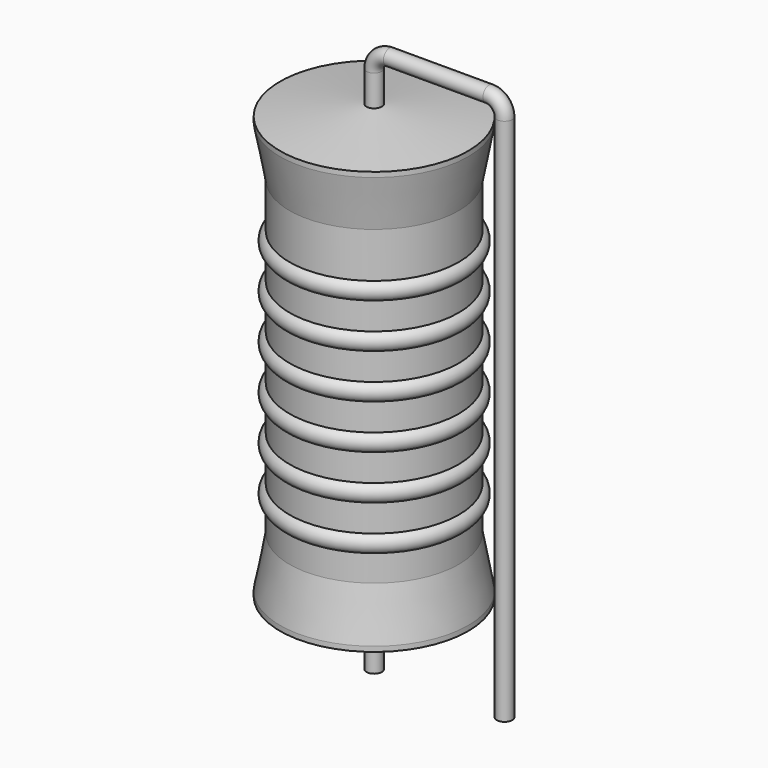
from build123d import *

# Parameters (mm, degrees)
SKETCH_R = 0.45


with BuildPart() as sweep_body:
    # Sweep: sweep along a path in Sketch001
    with BuildLine(Plane.XZ) as sweep_path:
        Line((0, -3), (0, 27.9))
        ThreePointArc((0, 27.9), (0.263601, 28.536393), (0.899991, 28.8))
        Line((0.899991, 28.8), (6.72, 28.8))
        ThreePointArc((6.72, 28.8), (7.356396, 28.536396), (7.62, 27.9))
        Line((7.62, 27.9), (7.62, -3))
    # Sketch → Sweep (sweep)
    with BuildSketch(Plane.XY.offset(-2)):
        Circle(SKETCH_R)
    sweep(path=sweep_path.line)


with BuildPart() as revolution:
    # Sketch002 → Revolution (revolve)
    with BuildSketch(Plane.XZ):
        Polygon((0, 0.1), (0, 26.1), (0.3375, 26.1), (5.5, 25.45), (5.5, 25.1575), (4.95, 22.2), (4.95, 4), (5.5, 1.0425), (5.5, 0.75), (0.3375, 0.1), align=None)
    revolve(axis=Axis((0, 0, 0), (0, 0, 1)))


with BuildPart() as revolution001:
    # Sketch003 → Revolution001 (revolve)
    with BuildSketch(Plane.XZ):
        with BuildLine():
            Line((4.4, 21.1), (4.4, 4))
            Line((4.4, 4), (4.73, 4))
            Line((4.73, 4), (4.73, 5.5))
            ThreePointArc((4.73, 5.5), (5.28, 6.05), (4.73, 6.6))
            Line((4.73, 6.6), (4.73, 8.1))
            ThreePointArc((4.73, 8.1), (5.28, 8.65), (4.73, 9.2))
            Line((4.73, 9.2), (4.73, 10.7))
            ThreePointArc((4.73, 10.7), (5.28, 11.25), (4.73, 11.8))
            Line((4.73, 11.8), (4.73, 13.3))
            ThreePointArc((4.73, 13.3), (5.28, 13.85), (4.73, 14.4))
            Line((4.73, 14.4), (4.73, 15.9))
            ThreePointArc((4.73, 15.9), (5.28, 16.45), (4.73, 17))
            Line((4.73, 17), (4.73, 18.5))
            ThreePointArc((4.73, 18.5), (5.28, 19.05), (4.73, 19.6))
            Line((4.73, 21.1), (4.73, 19.6))
            Line((4.4, 21.1), (4.73, 21.1))
        make_face()
    revolve(axis=Axis((0, 0, 0), (0, 0, 1)))


solid = Compound([sweep_body.part, revolution.part, revolution001.part])
